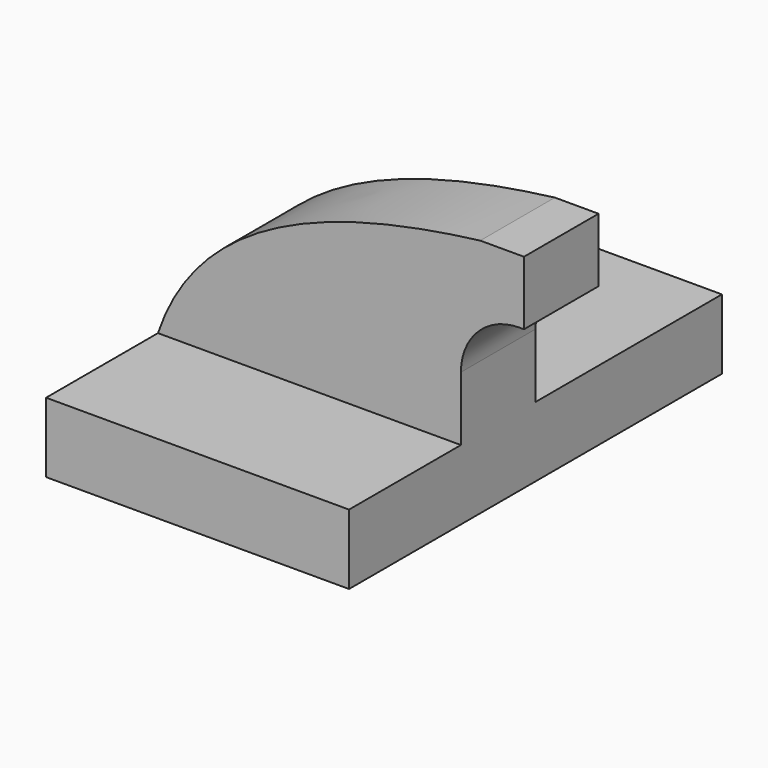
from build123d import *

# Parameters (mm, degrees)
F1_DEPTH = 63.5
F2_DEPTH = 25.4


with BuildPart() as f1:
    # F0 (on Front) → F1 (new body, symmetric)
    with BuildSketch(Plane.XZ):
        Polygon((-41.275, -9.525), (41.275, -9.525), (41.275, 9.525), (22.225, 9.525), (-41.275, 9.525), align=None)
    extrude(amount=F1_DEPTH, both=True)

    # F0 (on Front) → F2 (join)
    with BuildSketch(Plane.XZ):
        with BuildLine():
            Line((22.225, 9.525), (41.275, 9.525))
            Line((41.275, 9.525), (41.275, 27.0002))
            ThreePointArc((41.275, 27.0002), (45.92468, 38.22552), (57.15, 42.8752))
            Line((57.15, 42.8752), (58.455468, 42.8752))
            Line((58.455468, 42.8752), (58.455468, 60.276241))
            Line((58.455468, 60.276241), (46.545251, 60.276241))
            ThreePointArc((46.545251, 60.276241), (28.953134, 47.608266), (22.225, 27.0002))
            Line((22.225, 27.0002), (22.225, 9.525))
        make_face()
        with BuildLine():
            add(Edge.make_bspline(
                [(-41.275, 9.525), (-29.582771, 44.333433), (8.860969, 55.563996), (46.545251, 60.276241)],
                knots=[0, 0, 0, 0, 101.430197, 101.430197, 101.430197, 101.430197], degree=3))
            Line((-41.275, 9.525), (22.225, 9.525))
            Line((22.225, 9.525), (22.225, 27.0002))
            ThreePointArc((22.225, 27.0002), (28.953134, 47.608266), (46.545251, 60.276241))
        make_face()
    extrude(amount=F2_DEPTH)


solid = f1.part
